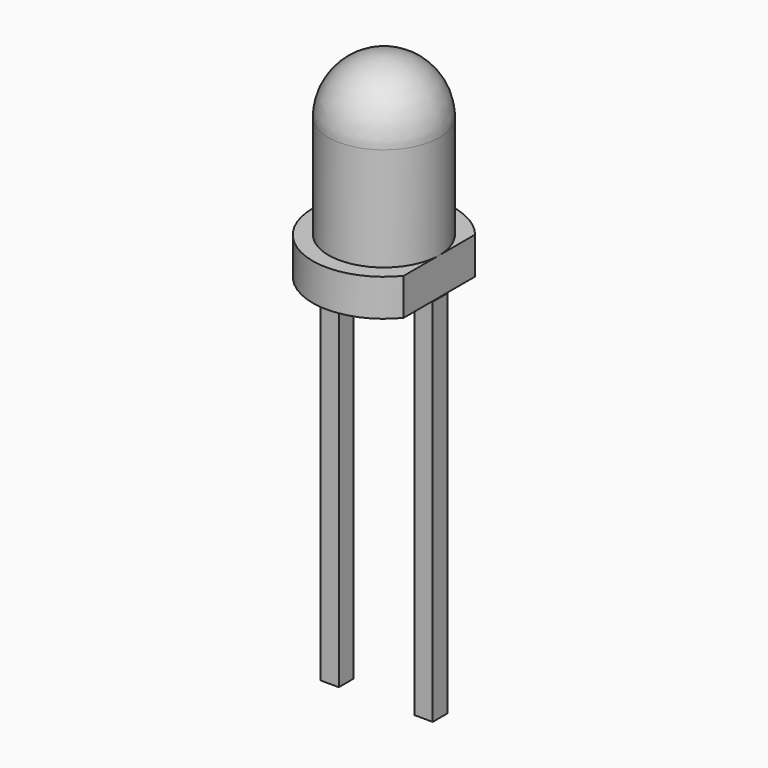
from build123d import *

# Parameters (mm, degrees)
F2_W     = 1.607016
F2_H     = 4.821047
F3_DEPTH = 25
F4_W     = 0.5
F4_H     = 0.5
F5_DEPTH = 10


with BuildPart() as f1:
    # F0 (on Front) → F1 (revolve)
    with BuildSketch(Plane.XZ):
        with BuildLine():
            Line((0, 5.3), (0, 0))
            Line((0, 0), (1.925, 0))
            Line((1.925, 0), (1.925, 1))
            Line((1.925, 1), (1.5, 1))
            Line((1.5, 1), (1.5, 3.8))
            ThreePointArc((1.5, 3.8), (1.06066, 4.86066), (0, 5.3))
        make_face()
    revolve(axis=Axis((0, 0, 2.65), (0, 0, 1)))

    # F2 (on face) → F3 (cut)
    with BuildSketch(Plane.XY.offset(1)):
        with Locations((2.303508, 0.134294)):
            Rectangle(F2_W, F2_H)
    extrude(amount=-F3_DEPTH, mode=Mode.SUBTRACT)

    # F4 (on Top) → F5 (join)
    with BuildSketch(Plane.XY):
        with Locations((-1.27, 0)):
            Rectangle(F4_W, F4_H)
        with Locations((1.27, 0)):
            Rectangle(F4_W, F4_H)
    extrude(amount=-F5_DEPTH)


solid = f1.part
